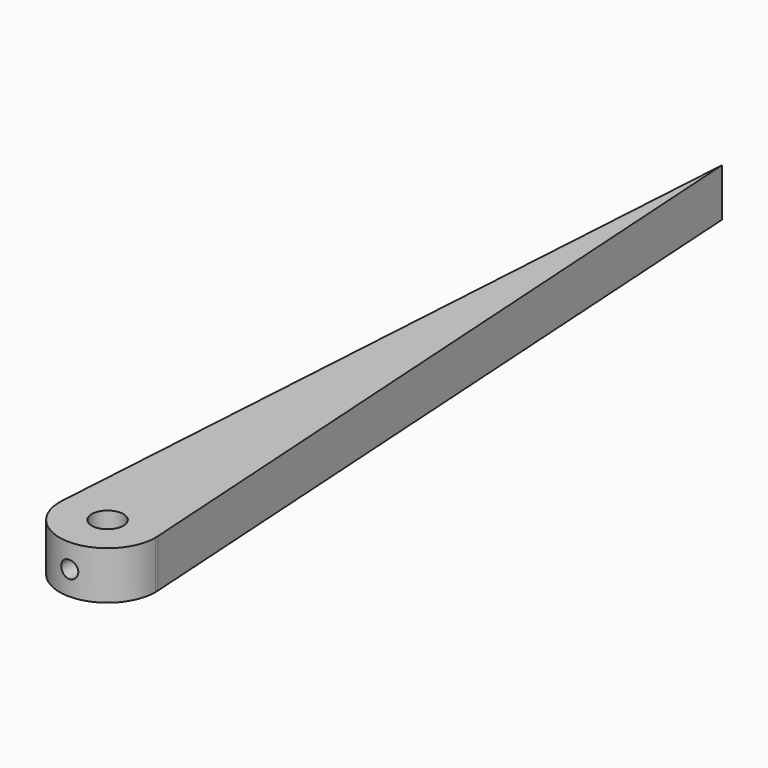
from build123d import *

# Parameters (mm, degrees)
F0_R     = 2.0955
F1_DEPTH = 6.35
F5_D     = 2.2606
F5_DEPTH = 5.08
F5_START = 0.1014065
F5_TIP   = 0.6791527577


with BuildPart() as f1:
    # F0 (on Top) → F1 (new body)
    with BuildSketch(Plane.XY):
        with BuildLine():
            ThreePointArc((-6.3375855209, 0.396875), (-0.1985345593, -6.3468956214), (6.35, 0))
            ThreePointArc((6.35, 0), (6.3468956214, 0.1985345593), (6.3375855209, 0.396875))
            ThreePointArc((6.3375855209, 0.396875), (0, 6.35), (-6.3375855209, 0.396875))
        make_face()
        Circle(F0_R, mode=Mode.SUBTRACT)
        with BuildLine():
            ThreePointArc((-6.3375855209, 0.396875), (0, 6.35), (6.3375855209, 0.396875))
            Line((6.3375855209, 0.396875), (0, 101.6))
            Line((0, 101.6), (-6.3375855209, 0.396875))
        make_face()
    extrude(amount=F1_DEPTH)

    # F5
    # its depths count from where the whole tool has entered the part; down to there all is cleared
    with Locations(Plane.XZ.offset(6.35).offset(-F5_START)):
        with Locations((0, 3.175)):
            Hole(F5_D / 2, depth=F5_DEPTH)
            with Locations((0, 0, -(F5_DEPTH + F5_TIP / 2))):  # 118° drill point
                Cone(0, F5_D / 2, F5_TIP, mode=Mode.SUBTRACT)


solid = f1.part
